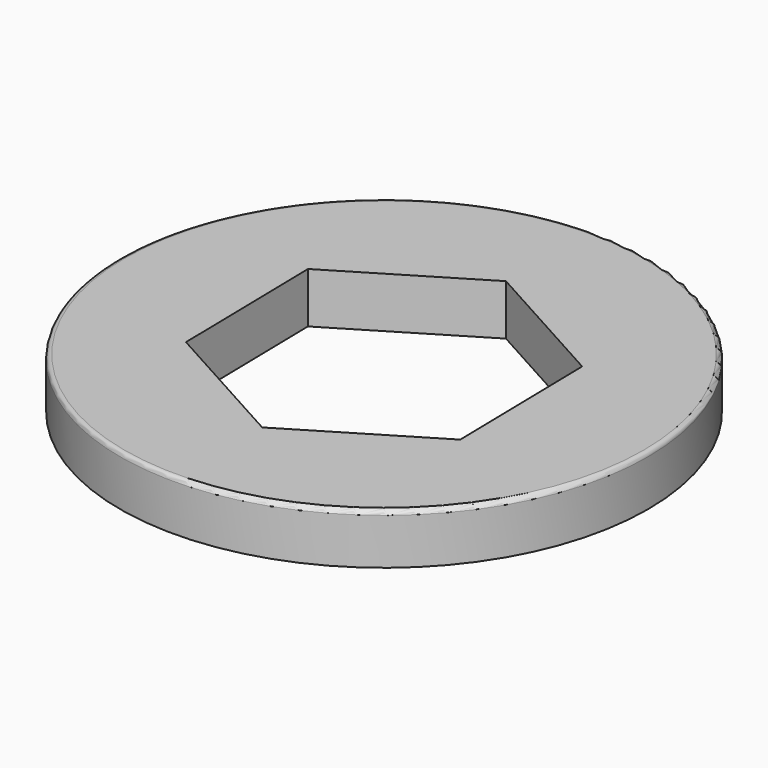
from build123d import *

# Parameters (mm, degrees)
F0_R     = 12
F1_DEPTH = 2.3
F2_R     = 0.2


with BuildPart() as f1:
    # F0 (on Top) → F1 (new body)
    with BuildSketch(Plane.XY):
        Circle(F0_R)
        Polygon((6.076539, 3.661806), (6.209486, -3.431534), (0.132947, -7.09334), (-6.076539, -3.661806), (-6.209486, 3.431534), (-0.132947, 7.09334), align=None, mode=Mode.SUBTRACT)
    extrude(amount=F1_DEPTH)

    # F2
    f2_edges = [f1.edges().sort_by_distance(p)[0] for p in [
        (-12, 0, 2.3),
    ]]
    fillet(f2_edges, radius=F2_R)


solid = f1.part
